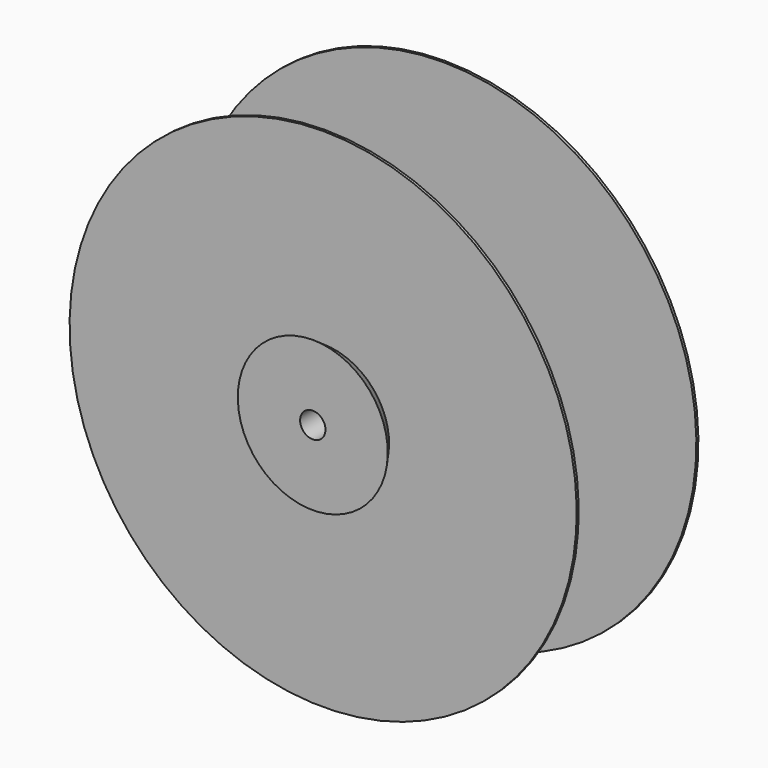
from build123d import *

# Parameters (mm, degrees)
F4_DEPTH = 1


with BuildPart() as f1:
    # F0 (on Right) → F1 (revolve)
    with BuildSketch(Plane.YZ):
        Polygon((-59, 74), (-60, 74), (-60, 0), (0, 0), (0, 74), (-1, 74), (-1, 1), (-59, 1), align=None)
    revolve(axis=Axis((0, -30, -26), (0, -1, 0)))

    # F3 (on face) → F4 (join)
    with BuildSketch(Plane(origin=(0, 0, 0), x_dir=(-1, 0, 0), z_dir=(0, 1, 0))):
        with BuildLine():
            ThreePointArc((100, -26), (99.9650009685, -28.6454832021), (99.8600283726, -31.2891146171))
            Line((99.8600283726, -31.2891146171), (109.9964940565, -31.2891146171))
            Line((109.9964940565, -31.2891146171), (109.9964940565, -25.1626372337))
            Line((109.9964940565, -25.1626372337), (99.9964940565, -25.1626372337))
            ThreePointArc((99.9964940565, -25.1626372337), (99.9991235103, -25.5813149471), (100, -26))
        make_face()
    extrude(amount=-F4_DEPTH)


with BuildPart() as f2:
    # F0 (on Right) → F2 (revolve)
    with BuildSketch(Plane.YZ):
        Polygon((-55, -3.5), (-60, 0), (-65.10112958, 3.570790706), (-65.10112958, -21.000209294), (-55, -21), align=None)
        Polygon((-64.10112958, -20.0001885739), (-64.10112958, 1.6501351444), (-56, -4.0206555616), (-56, -20.0000207196), align=None, mode=Mode.SUBTRACT)
        Polygon((-56, -4.0206555616), (-64.10112958, 1.6501351444), (-64.10112958, -20.0001885739), (-56, -20.0000207196), align=None)
    revolve(axis=Axis((0, -30, -26), (0, -1, 0)))


with BuildPart() as f2b:
    # F0 (on Right) → F2, piece 2 (revolve)
    with BuildSketch(Plane.YZ):
        Polygon((5.10112958, 3.570790706), (0, 0), (-5, -3.5), (-5, -21), (5.10112958, -21.000209294), align=None)
        Polygon((-4, -20.0000207196), (-4, -4.0206555616), (4.10112958, 1.6501351444), (4.10112958, -20.0001885739), align=None, mode=Mode.SUBTRACT)
        Polygon((4.10112958, 1.6501351444), (-4, -4.0206555616), (-4, -20.0000207196), (4.10112958, -20.0001885739), align=None)
    revolve(axis=Axis((0, -30, -26), (0, -1, 0)))


solid = Compound([f1.part, f2.part, f2b.part])
